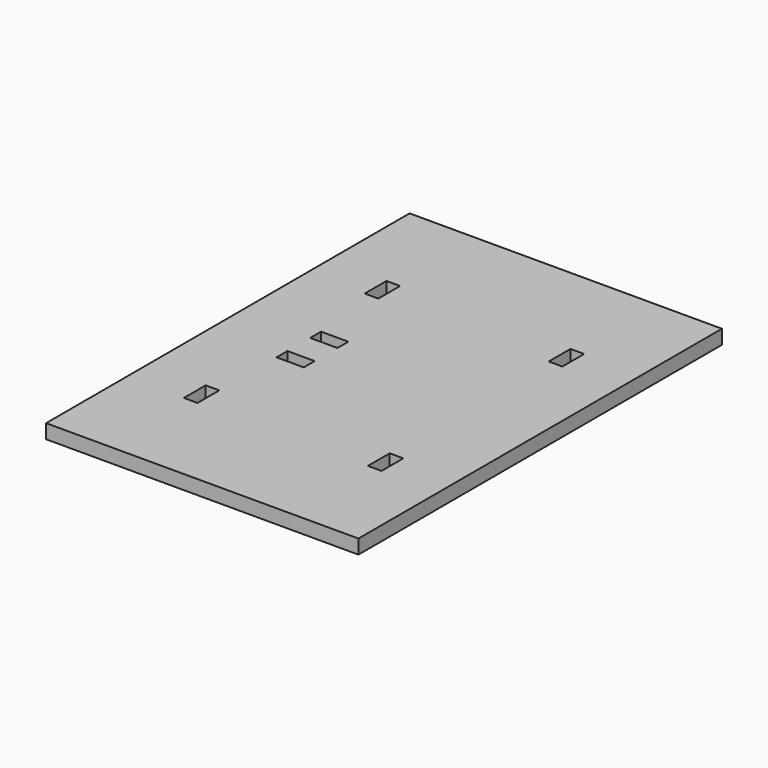
from build123d import *

# Parameters (mm, degrees)
F0_W     = 139.7
F0_H     = 203.2
F1_DEPTH = 6.35
F2_W     = 6.096
F2_H     = 12.192
F2_W_2   = 12.192
F2_H_2   = 6.096
F3_DEPTH = 12.7


with BuildPart() as f1:
    # F0 (on Top) → F1 (new body)
    with BuildSketch(Plane.XY):
        Rectangle(F0_W, F0_H)
    extrude(amount=F1_DEPTH)

    # F2 (on face) → F3 (cut)
    with BuildSketch(Plane.XY.offset(6.35)):
        with Locations((-41.148, 50.546)):
            Rectangle(F2_W, F2_H)
        with Locations((41.148, 50.546)):
            Rectangle(F2_W, F2_H)
        with Locations((41.148, -50.546)):
            Rectangle(F2_W, F2_H)
        with Locations((-41.148, -50.546)):
            Rectangle(F2_W, F2_H)
        with Locations((-32.004, 9.398)):
            Rectangle(F2_W_2, F2_H_2)
        with Locations((-32.004, -9.398)):
            Rectangle(F2_W_2, F2_H_2)
    extrude(amount=-F3_DEPTH, mode=Mode.SUBTRACT)


solid = f1.part
